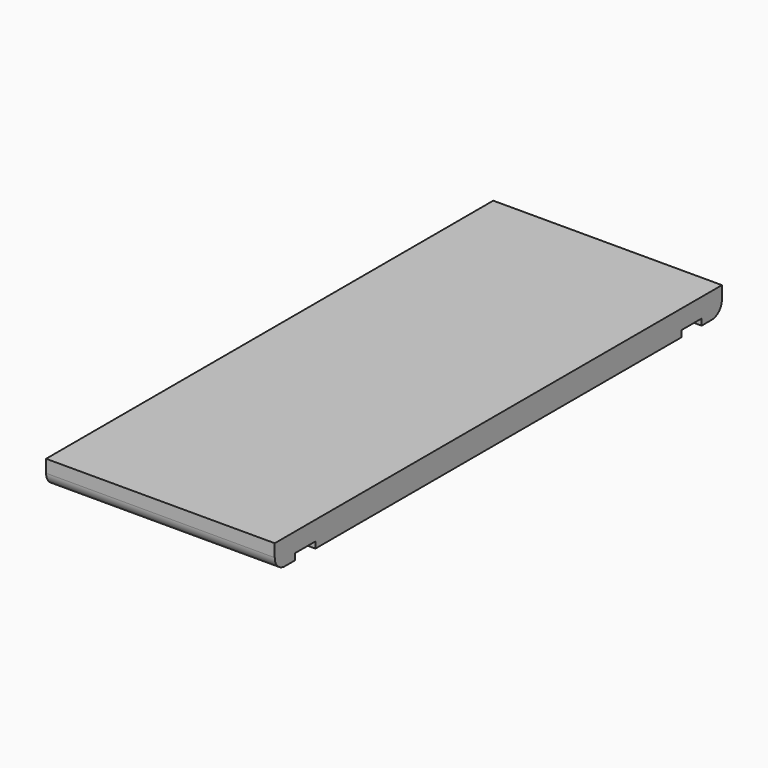
from build123d import *

# Parameters (mm, degrees)
F0_W     = 228.6
F0_H     = 558.8
F1_DEPTH = 25.4
F2_W     = 228.6
F2_H     = 25.4
F3_DEPTH = 6.35
F4_W     = 228.6
F4_H     = 25.4
F5_DEPTH = 6.35
F6_R     = 12.7


with BuildPart() as f1:
    # F0 (on Top) → F1 (new body)
    with BuildSketch(Plane.XY):
        Rectangle(F0_W, F0_H)
    extrude(amount=F1_DEPTH)

    # F2 (on face) → F3 (cut)
    with BuildSketch(Plane(origin=(0, 0, 0), x_dir=(1, 0, 0), z_dir=(0, 0, -1))):
        with Locations((0, 241.3)):
            Rectangle(F2_W, F2_H)
    extrude(amount=-F3_DEPTH, mode=Mode.SUBTRACT)

    # F4 (on face) → F5 (cut)
    with BuildSketch(Plane(origin=(0, 0, 0), x_dir=(1, 0, 0), z_dir=(0, 0, -1))):
        with Locations((0, -241.3)):
            Rectangle(F4_W, F4_H)
    extrude(amount=-F5_DEPTH, mode=Mode.SUBTRACT)

    # F6
    f6_edges = [f1.edges().sort_by_distance(p)[0] for p in [
        (0, -279.4, 0),
        (0, 279.4, 0),
    ]]
    fillet(f6_edges, radius=F6_R)


solid = f1.part
